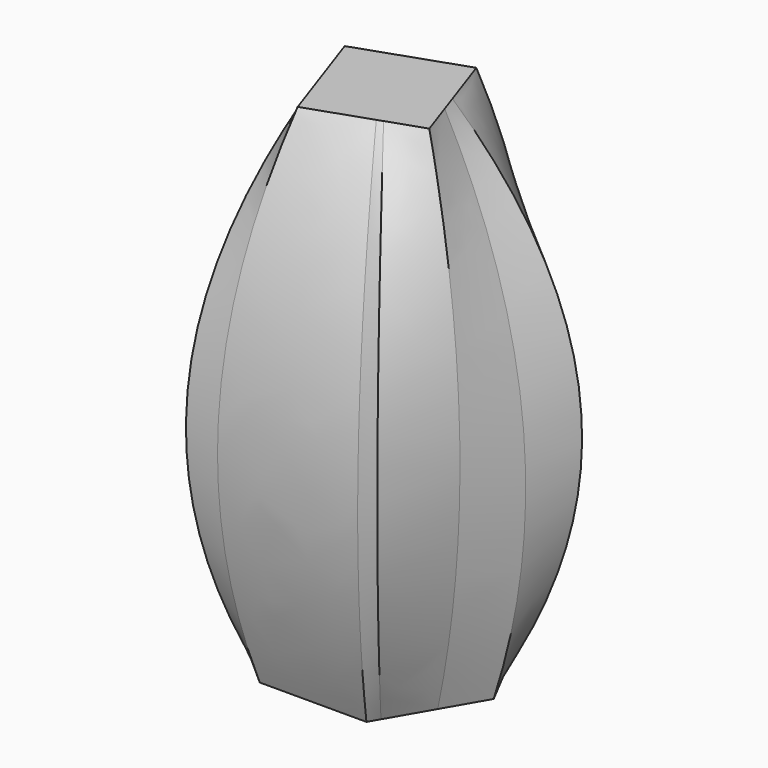
from build123d import *

# Parameters (mm, degrees)
SKETCH002_W = 15.170966
SKETCH002_H = 15.170966


with BuildPart() as part:
    # Sketch → Loft section 0
    with BuildSketch(Plane.XY):
        Polygon((7.412128, -12.838183), (14.824257, 0), (7.412128, 12.838183), (-7.412128, 12.838183), (-14.824257, 0), (-7.412128, -12.838183), align=None)
    # Sketch001 → Loft section 1
    with BuildSketch(Plane.XY.offset(30)):
        Polygon((13.288204, -18.289643), (21.500765, 6.986022), (0, 22.607242), (-21.500765, 6.986022), (-13.288204, -18.289643), align=None)
    # Sketch002 → Loft section 2
    with BuildSketch(Plane(origin=(0, 0, 70), x_dir=(0.945519, 0.325568, 0), z_dir=(0, 0, 1))):
        Rectangle(SKETCH002_W, SKETCH002_H)
    loft()


solid = part.part
